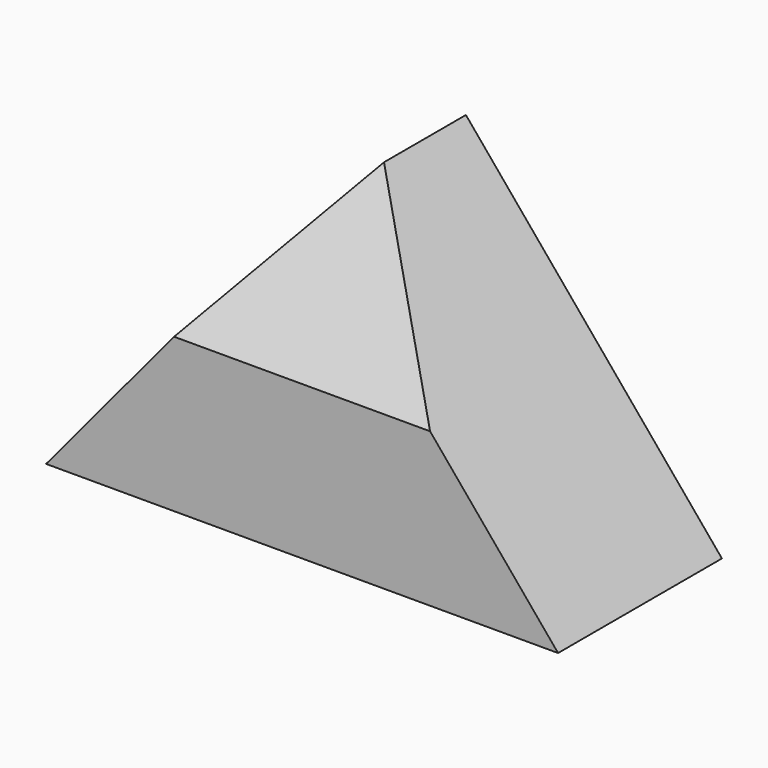
from build123d import *

# Parameters (mm, degrees)
F1_DEPTH = 25.4
F2_DEPTH = 25.4
F6_DEPTH = 15.875


with BuildPart() as f1:
    # F0 (on Front) → F1 (new body)
    with BuildSketch(Plane.XZ):
        Polygon((15.875, 19.05), (0, 0), (63.5, 0), (47.625, 19.05), align=None)
    extrude(amount=F1_DEPTH)

    # F0 (on Front) → F2 (join)
    with BuildSketch(Plane.XZ):
        Polygon((15.875, 19.05), (0, 0), (63.5, 0), (47.625, 19.05), align=None)
        Polygon((31.75, 38.1), (15.875, 19.05), (47.625, 19.05), align=None)
    extrude(amount=F2_DEPTH)

    # F5 (on 3pt) → F6 (cut, symmetric)
    with BuildSketch(Plane.YZ.offset(31.75)):
        Polygon((-25.4, 19.05), (-12.7, 38.1), (-25.4, 38.1), align=None)
    extrude(amount=F6_DEPTH, both=True, mode=Mode.SUBTRACT)


solid = f1.part
